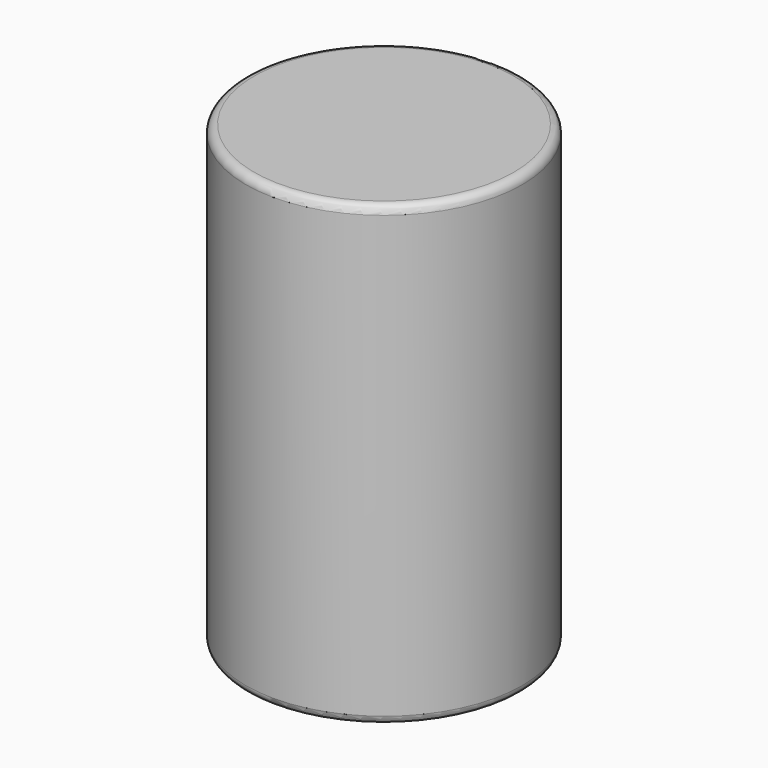
from build123d import *

# Parameters (mm, degrees)
F0_R     = 250
F0_R_2   = 125
F1_DEPTH = 827
F2_DEPTH = 57
F3_R     = 15


with BuildPart() as f1:
    # F0 (on Top) → F1 (new body)
    with BuildSketch(Plane.XY):
        Circle(F0_R)
        Circle(F0_R_2, mode=Mode.SUBTRACT)
        Circle(F0_R_2)
    extrude(amount=F1_DEPTH)

    # F0 (on Top) → F2 (join)
    with BuildSketch(Plane.XY):
        Circle(F0_R_2)
    extrude(amount=-F2_DEPTH)

    # F3
    f3_edges = [f1.edges().sort_by_distance(p)[0] for p in [
        (-250, 0, 827),
        (-250, 0, 0),
    ]]
    fillet(f3_edges, radius=F3_R)


solid = f1.part
